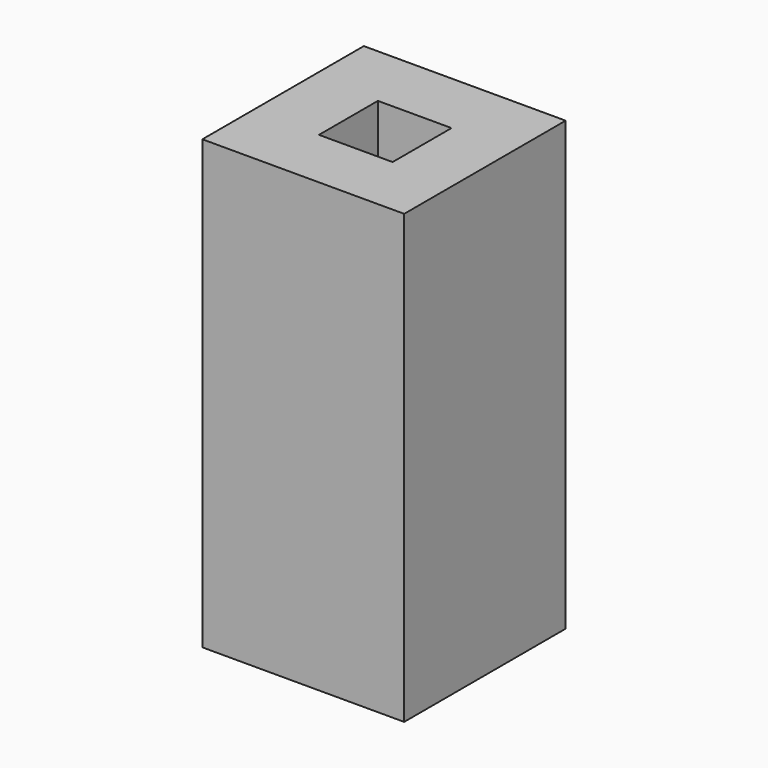
from build123d import *

# Parameters (mm, degrees)
BOX132_W     = 135
BOX132_H     = 135
BOX132_DEPTH = 1000
BOX131_W     = 370
BOX131_H     = 370
BOX131_DEPTH = 820


with BuildPart() as box132:
    # Box132 → Box132 (new body)
    with BuildSketch(Plane(origin=(120, 240, 900), x_dir=(1, 0, 0), z_dir=(0, 0, 1))):
        with Locations((67.5, 67.5)):
            Rectangle(BOX132_W, BOX132_H)
    extrude(amount=BOX132_DEPTH)


with BuildPart() as cut:
    # Box131 → Box131 (new body)
    with BuildSketch(Plane(origin=(-1.79383, 125, 780), x_dir=(1, 0, 0), z_dir=(0, 0, 1))):
        with Locations((185, 185)):
            Rectangle(BOX131_W, BOX131_H)
    extrude(amount=BOX131_DEPTH)

    # Cut: cut Box132
    add(box132.part, mode=Mode.SUBTRACT)


with BuildPart() as cut_1:
    # Cut placement: moved
    add(cut.part.moved(Location((3, 0, 0))))


solid = cut_1.part
